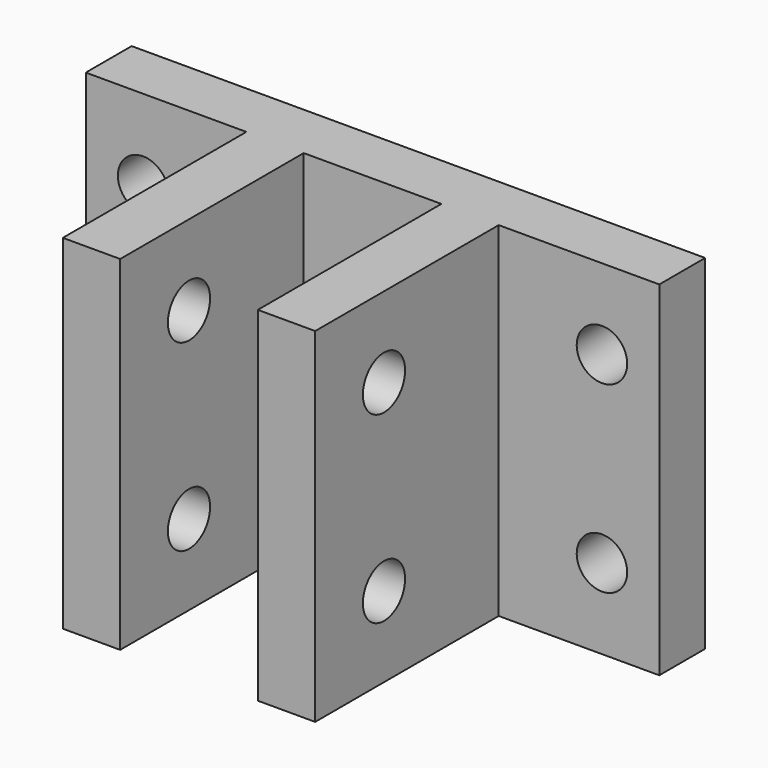
from build123d import *

# Parameters (mm, degrees)
PAD_DEPTH       = 30
SKETCH001_R     = 2.3
POCKET_DEPTH    = 36.001
SKETCH002_R     = 2.2
POCKET001_DEPTH = 25.001


with BuildPart() as part:
    # Sketch → Pad (new body)
    with BuildSketch(Plane.XY):
        Polygon((27.992845, 15.579944), (-22.007155, 15.579944), (-22.007155, 10.579944), (-8.007155, 10.579944), (-8.007155, -9.420056), (-3.007155, -9.420056), (-3.007155, 10.579944), (8.992845, 10.579944), (8.992845, -9.420056), (13.992845, -9.420056), (13.992845, 10.579944), (27.992845, 10.579944), align=None)
    extrude(amount=PAD_DEPTH)

    # Sketch001 → Pocket (cut, through all)
    with BuildSketch(Plane.YZ.offset(13.992845)):
        with Locations((-1.920056, 7)):
            Circle(SKETCH001_R)
        with Locations((-1.920056, 23)):
            Circle(SKETCH001_R)
    extrude(amount=-POCKET_DEPTH, mode=Mode.SUBTRACT)

    # Sketch002 → Pocket001 (cut, through all)
    with BuildSketch(Plane(origin=(0, 15.579944, 0), x_dir=(-1, 0, 0), z_dir=(0, 1, 0))):
        with Locations((-22.992845, 7)):
            Circle(SKETCH002_R)
        with Locations((17.007155, 7)):
            Circle(SKETCH002_R)
        with Locations((-22.992845, 23)):
            Circle(SKETCH002_R)
        with Locations((17.007155, 23)):
            Circle(SKETCH002_R)
    extrude(amount=-POCKET001_DEPTH, mode=Mode.SUBTRACT)


solid = part.part
